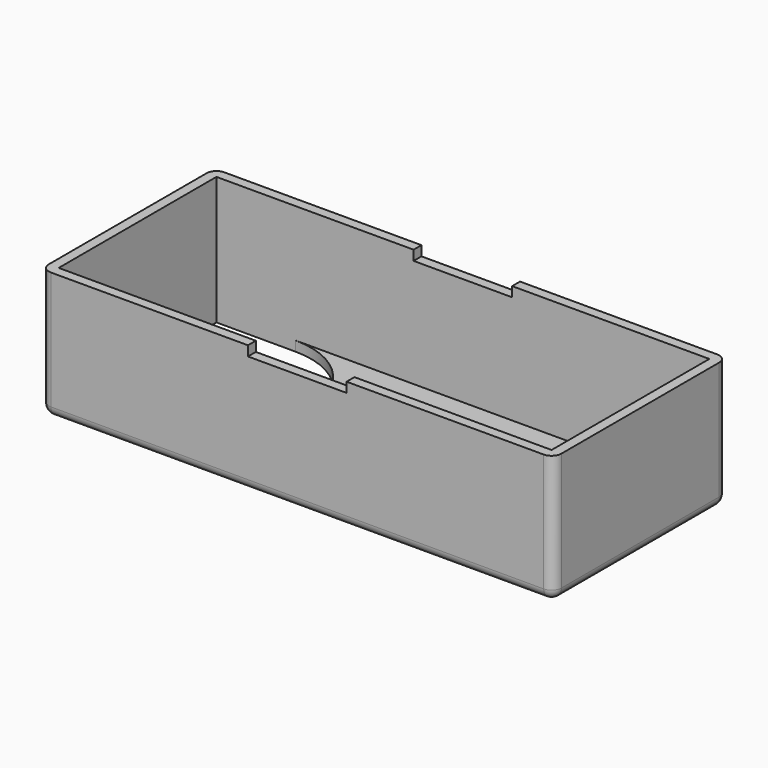
from build123d import *

# Parameters (mm, degrees)
BOX_W          = 50
BOX_H          = 20
BOX_DEPTH      = 12
THICKNESS_T    = 1
CYLINDER_R     = 8
CYLINDER_DEPTH = 1
BOX001_W       = 10
BOX001_H       = 22
BOX001_DEPTH   = 1
BOX002_W       = 8
BOX002_H       = 8
BOX002_DEPTH   = 1


with BuildPart() as part:
    # Box → Box (join)
    with BuildSketch(Plane.XY):
        with Locations((25, 10)):
            Rectangle(BOX_W, BOX_H)
    extrude(amount=BOX_DEPTH)

    # Thickness
    thickness_openings = [part.faces().sort_by_distance(p)[0] for p in [
        (25, 10, 12),
    ]]
    offset(amount=THICKNESS_T, openings=thickness_openings)

    # Cylinder → Cylinder (cut)
    with BuildSketch(Plane(origin=(8, 12, -1), x_dir=(1, 0, 0), z_dir=(0, 0, 1))):
        Circle(CYLINDER_R)
    extrude(amount=CYLINDER_DEPTH, mode=Mode.SUBTRACT)

    # Box001 → Box001 (cut)
    with BuildSketch(Plane(origin=(20, -1, 11), x_dir=(1, 0, 0), z_dir=(0, 0, 1))):
        with Locations((5, 11)):
            Rectangle(BOX001_W, BOX001_H)
    extrude(amount=BOX001_DEPTH, mode=Mode.SUBTRACT)

    # Box002 → Box002 (cut)
    with BuildSketch(Plane(origin=(0, 12, -1), x_dir=(1, 0, 0), z_dir=(0, 0, 1))):
        with Locations((4, 4)):
            Rectangle(BOX002_W, BOX002_H)
    extrude(amount=BOX002_DEPTH, mode=Mode.SUBTRACT)


solid = part.part
